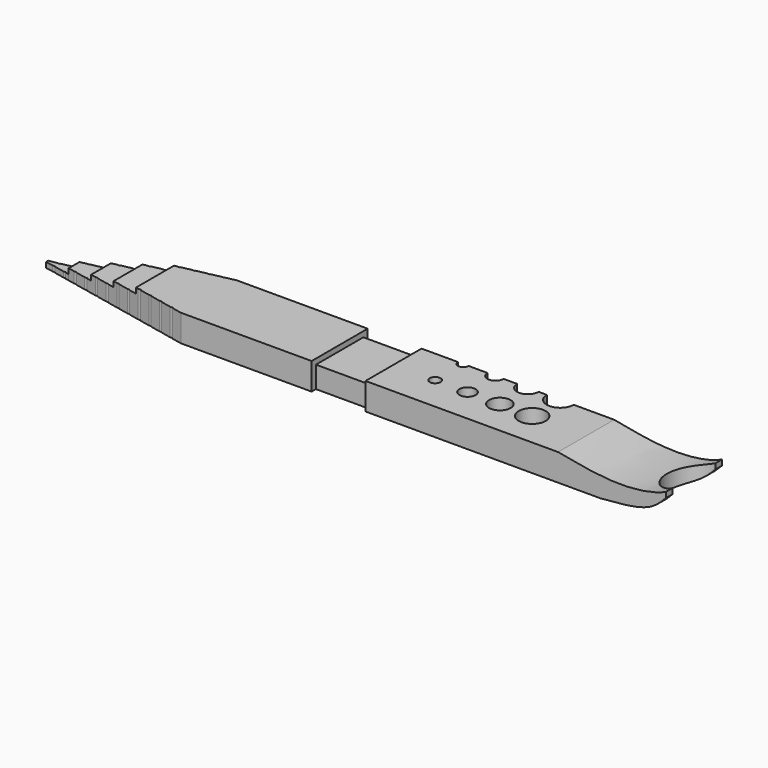
from build123d import *

# Parameters (mm, degrees)
F0_R          = 1
F0_R_2        = 1.5
F0_R_3        = 2
F0_R_4        = 2.5
F0_W          = 20
F0_H          = 13
F1_DEPTH      = 5
F2_DEPTH      = 5
F4_DEPTH      = 25
F6_DEPTH      = 25
F6_DEPTH_BACK = 25
F7_W          = 10
F7_H          = 13
F8_DEPTH      = 1
F9_W          = 10
F9_H          = 4
F10_DEPTH     = 1
F11_W         = 10
F11_H         = 4
F12_DEPTH     = 1


with BuildPart() as f1:
    # F0 (on Top) → F1 (new body)
    with BuildSketch(Plane.XY):
        with BuildLine():
            Line((51, 0), (0, 0))
            Line((0, 0), (0, -13))
            Line((0, -13), (80, -13))
            Line((80, -13), (80, 0))
            Line((80, 0), (72.5, 0))
            ThreePointArc((72.5, 0), (70, -2.5), (67.5, 0))
            Line((67.5, 0), (66, 0))
            ThreePointArc((66, 0), (64, -2), (62, 0))
            Line((62, 0), (59.5, 0))
            ThreePointArc((59.5, 0), (58, -1.5), (56.5, 0))
            Line((56.5, 0), (53, 0))
            ThreePointArc((53, 0), (52, -1), (51, 0))
        make_face()
        with Locations((52, -6.5)):
            Circle(F0_R, mode=Mode.SUBTRACT)
        with Locations((58, -6.5)):
            Circle(F0_R_2, mode=Mode.SUBTRACT)
        with Locations((64, -6.5)):
            Circle(F0_R_3, mode=Mode.SUBTRACT)
        with Locations((70, -6.5)):
            Circle(F0_R_4, mode=Mode.SUBTRACT)
        with Locations((-10, -6.5)):
            Rectangle(F0_W, F0_H)
    extrude(amount=F1_DEPTH)

    # F0 (on Top) → F2 (join)
    with BuildSketch(Plane.XY):
        with BuildLine():
            Line((80, 0), (80, -13))
            Line((80, -13), (100, -13))
            Line((100, -13), (100, -11.5))
            ThreePointArc((100, -11.5), (95, -6.5), (100, -1.5))
            Line((100, -1.5), (100, 0))
            Line((100, 0), (80, 0))
        make_face()
    extrude(amount=F2_DEPTH)

    # F3 (on face) → F4 (cut)
    with BuildSketch(Plane.XZ.offset(13)):
        with BuildLine():
            add(Edge.make_bspline(
                [(100, 5), (101.2132067544, 5.5826393103), (101.9557552568, 6.3039713147), (102.6983037591, 7.0253033191)],
                knots=[0.7752257758, 0.7752257758, 0.7752257758, 0.7752257758, 1, 1, 1, 1], degree=3))
            Line((100, 5), (100, 4))
            add(Edge.make_bspline(
                [(100, 4), (100.9116064462, 4.9781336211), (101.8049551027, 6.0017184701), (102.6983037591, 7.0253033191)],
                knots=[0.7146792603, 0.7146792603, 0.7146792603, 0.7146792603, 1, 1, 1, 1], degree=3))
        make_face()
        Polygon((0, 4), (0, 5), (-20, 5), (-20, 1), (-15, 1), (-15, 2), (-10, 2), (-10, 3), (-5, 3), (-5, 4), align=None)
        with BuildLine():
            Line((100, 5), (80, 5))
            add(Edge.make_bspline(
                [(80, 5), (84.0150963882, 4.2328291772), (91.3720317074, 2.8271278998), (98.0993371218, 4.0872117184), (100, 5)],
                knots=[0, 0, 0, 0, 0.4230846239, 0.7752257758, 0.7752257758, 0.7752257758, 0.7752257758], degree=3))
        make_face()
        with BuildLine():
            Line((100, 0), (100, 4))
            add(Edge.make_bspline(
                [(87.8586545587, 0), (91.1531912492, 0.2461096824), (96.7341711942, 0.6630220834), (99.0645185264, 2.9962490008), (100, 4)],
                knots=[0, 0, 0, 0, 0.4218859534, 0.7146792603, 0.7146792603, 0.7146792603, 0.7146792603], degree=3))
            Line((87.8586545587, 0), (100, 0))
        make_face()
    extrude(amount=-F4_DEPTH, mode=Mode.SUBTRACT)

    # F5 (on face) → F6 (cut, two sides)
    with BuildSketch(Plane.XY.offset(1)) as f6_sk:
        Polygon((8.119047619, -0.395), (10, 0), (10, 3.0941735022), (-21.7320173979, 3.0941735022), (-21.7320173979, -15.9472320229), (10, -15.9472320229), (10, -13), (8.119047619, -12.605), (8.119047619, -12.5), (7.619047619, -12.5), (5.7380952381, -12.105), (5.7380952381, -12), (5.2380952381, -12), (3.3571428571, -11.605), (3.3571428571, -11.5), (2.8571428571, -11.5), (0.9761904762, -11.105), (0.9761904762, -11), (0.4761904762, -11), (-1.4047619048, -10.605), (-1.4047619048, -10.5), (-1.9047619048, -10.5), (-3.7857142857, -10.105), (-3.7857142857, -10), (-4.2857142857, -10), (-6.1666666667, -9.605), (-6.1666666667, -9.5), (-6.6666666667, -9.5), (-8.5476190476, -9.105), (-8.5476190476, -9), (-9.0476190476, -9), (-10.9285714286, -8.605), (-10.9285714286, -8.5), (-11.4285714286, -8.5), (-13.3095238095, -8.105), (-13.3095238095, -8), (-13.8095238095, -8), (-15, -7.75), (-15, -13), (-20, -13), (-20, -6.75), (-20, -6.5), (-20, -6.25), (-20, 0), (-15, 0), (-15, -5.25), (-13.8095238095, -5), (-13.3095238095, -5), (-13.3095238095, -4.895), (-11.4285714286, -4.5), (-10.9285714286, -4.5), (-10.9285714286, -4.395), (-9.0476190476, -4), (-8.5476190476, -4), (-8.5476190476, -3.895), (-6.6666666667, -3.5), (-6.1666666667, -3.5), (-6.1666666667, -3.395), (-4.2857142857, -3), (-3.7857142857, -3), (-3.7857142857, -2.895), (-1.9047619048, -2.5), (-1.4047619048, -2.5), (-1.4047619048, -2.395), (0.4761904762, -2), (0.9761904762, -2), (0.9761904762, -1.895), (2.8571428571, -1.5), (3.3571428571, -1.5), (3.3571428571, -1.395), (5.2380952381, -1), (5.7380952381, -1), (5.7380952381, -0.895), (7.619047619, -0.5), (8.119047619, -0.5), align=None)
        Polygon((-15.6904761905, -5.395), (-15, -5.25), (-15, 0), (-20, 0), (-20, -6.25), (-18.5714285714, -6), (-18.0714285714, -6), (-18.0714285714, -5.895), (-16.1904761905, -5.5), (-15.6904761905, -5.5), align=None)
        Polygon((-15, -13), (-15, -7.75), (-15.6904761905, -7.605), (-15.6904761905, -7.5), (-16.1904761905, -7.5), (-18.0714285714, -7.105), (-18.0714285714, -7), (-18.5714285714, -7), (-20, -6.75), (-20, -13), align=None)
    extrude(amount=-F6_DEPTH, mode=Mode.SUBTRACT)
    extrude(f6_sk.sketch, amount=F6_DEPTH_BACK, mode=Mode.SUBTRACT)

    # F7 (on face) → F8 (cut)
    with BuildSketch(Plane.XY.offset(5)):
        with Locations((39.2707522213, -6.5)):
            Rectangle(F7_W, F7_H)
    extrude(amount=-F8_DEPTH, mode=Mode.SUBTRACT)

    # F9 (on face) → F10 (cut)
    with BuildSketch(Plane.XZ.offset(13)):
        with Locations((39.2707522213, 2)):
            Rectangle(F9_W, F9_H)
    extrude(amount=-F10_DEPTH, mode=Mode.SUBTRACT)

    # F11 (on face) → F12 (cut)
    with BuildSketch(Plane(origin=(0, 0, 0), x_dir=(-1, 0, 0), z_dir=(0, 1, 0))):
        with Locations((-39.2707522213, 2)):
            Rectangle(F11_W, F11_H)
    extrude(amount=-F12_DEPTH, mode=Mode.SUBTRACT)


solid = f1.part
